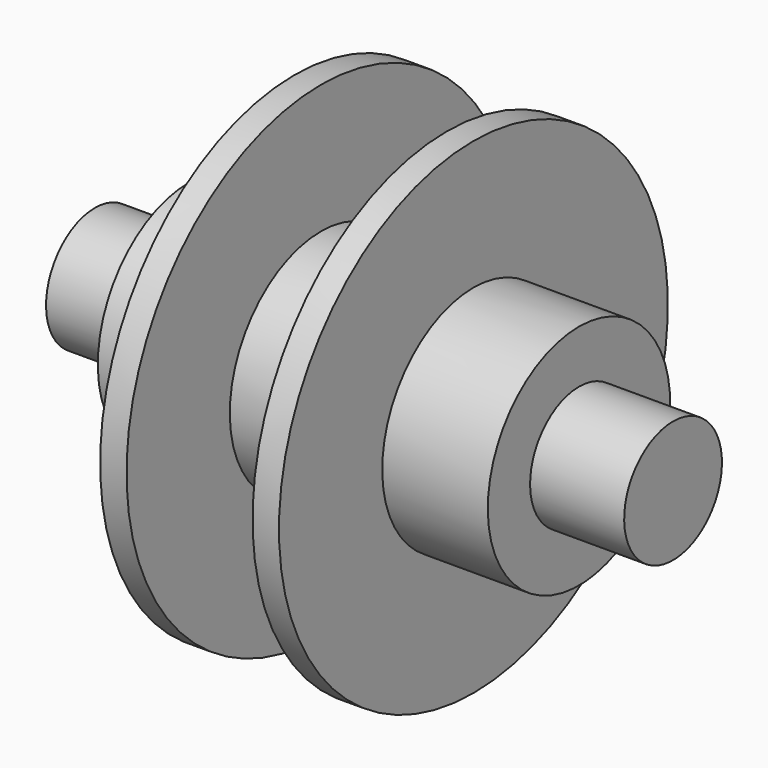
from build123d import *


with BuildPart() as f1:
    # F0 (on Front) → F1 (revolve)
    with BuildSketch(Plane.XZ):
        Polygon((-9.3218, 35.9664), (-13.2334, 35.9664), (-13.2334, 16.8656), (-28.853873, 16.8656), (-28.853873, 9.0424), (-42.7736, 9.0424), (-42.7736, 0), (0, 0), (0, 16.8656), (-9.3218, 16.8656), align=None)
    revolve(axis=Axis((-21.3868, 0, 0), (1, 0, 0)))

    # F0 (on Front) → F2 (revolve)
    with BuildSketch(Plane.XZ):
        Polygon((-9.3218, 35.9664), (-13.2334, 35.9664), (-13.2334, 16.8656), (-28.853873, 16.8656), (-28.853873, 9.0424), (-42.7736, 9.0424), (-42.7736, 0), (0, 0), (0, 16.8656), (-9.3218, 16.8656), align=None)
    revolve(axis=Axis((0, 0, 0), (-1, 0, 0)))

    # F3: F1 across plane


with BuildPart() as f1_1:
    add(f1.part)
    add(f1.part.mirror(Plane.YZ))


solid = f1_1.part
